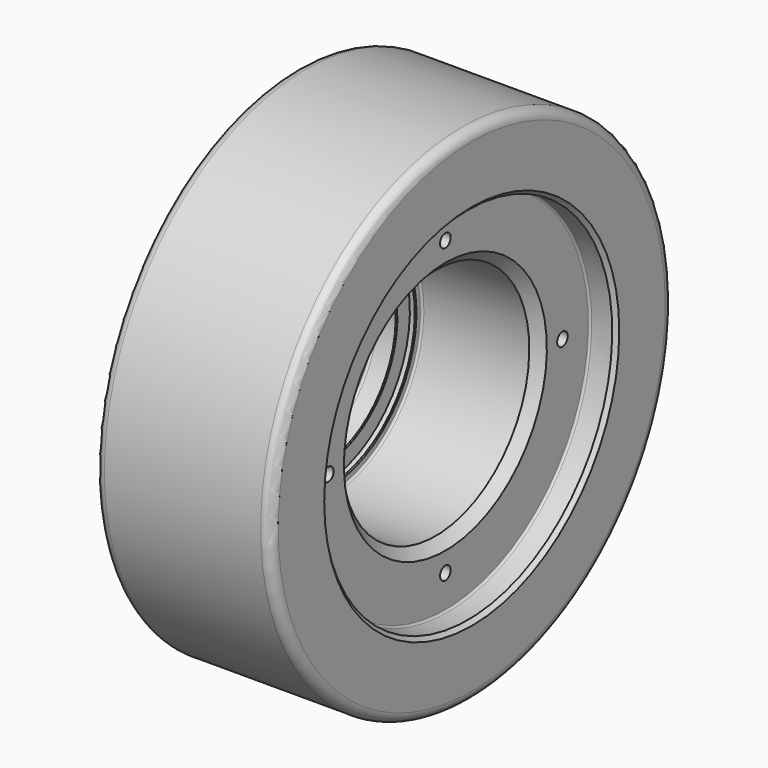
from build123d import *

# Parameters (mm, degrees)
F2_R     = 5
F3_SIZE  = 0.5
F4_SIZE  = 5
F5_SIZE  = 2
F6_R     = 1
F8_D     = 6.8
F8_DEPTH = 28.75
F8_TIP   = 2.0429261047


with BuildPart() as f1:
    # F0 (on Front) → F1 (revolve)
    with BuildSketch(Plane.XZ):
        Polygon((90, 129), (0, 129), (0, 38.5), (3, 38.5), (3, 47.5), (13.5, 47.5), (13.5, 56), (16.5, 56), (16.5, 60), (76.5, 60), (76.5, 92.5), (90, 92.5), align=None)
    revolve(axis=Axis((42.0149192214, 0, 0), (1, 0, 0)))

    # F2
    f2_edges = [f1.edges().sort_by_distance(p)[0] for p in [
        (90, 0, -129),
        (0, 0, -129),
    ]]
    fillet(f2_edges, radius=F2_R)

    # F3
    f3_edges = [f1.edges().sort_by_distance(p)[0] for p in [
        (0, 0, -38.5),
        (3, 0, -38.5),
        (13.5, 0, -47.5),
        (16.5, 0, -56),
    ]]
    chamfer(f3_edges, length=F3_SIZE)

    # F4
    f4_edges = [f1.edges().sort_by_distance(p)[0] for p in [
        (76.5, 0, -60),
    ]]
    chamfer(f4_edges, length=F4_SIZE)

    # F5
    f5_edges = [f1.edges().sort_by_distance(p)[0] for p in [
        (90, 0, -92.5),
    ]]
    chamfer(f5_edges, length=F5_SIZE)

    # F6
    f6_edges = [f1.edges().sort_by_distance(p)[0] for p in [
        (76.5, 0, -92.5),
        (16.5, 0, -60),
        (3, 0, -47.5),
    ]]
    fillet(f6_edges, radius=F6_R)

    # F8
    with Locations(Plane.YZ.offset(76.5)):
        with Locations((0, 75), (-75, 0), (0, -75), (75, 0)):
            Hole(F8_D / 2, depth=F8_DEPTH)
            with Locations((0, 0, -(F8_DEPTH + F8_TIP / 2))):  # 118° drill point
                Cone(0, F8_D / 2, F8_TIP, mode=Mode.SUBTRACT)


solid = f1.part
